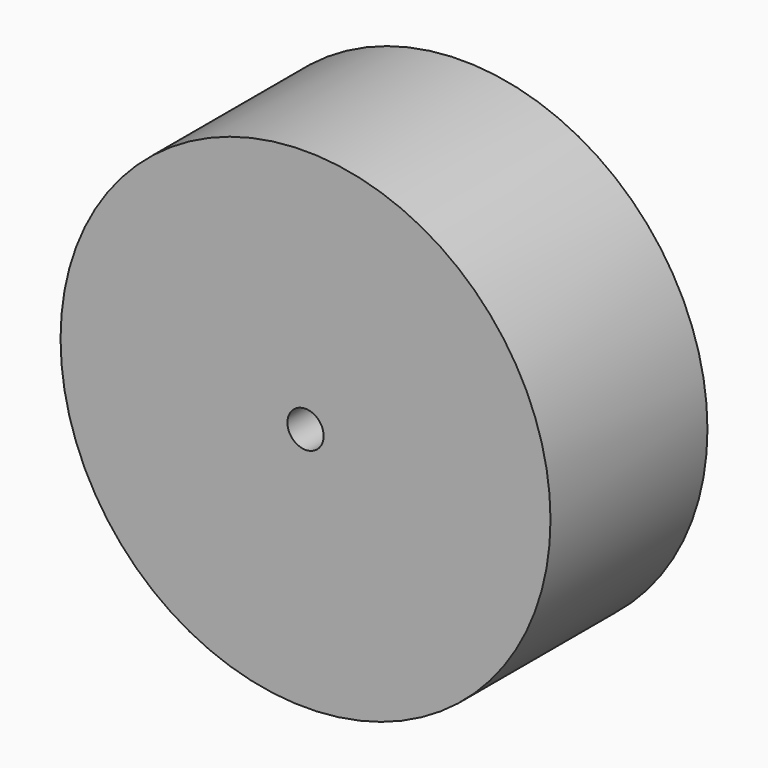
from build123d import *

# Parameters (mm, degrees)
F0_R     = 99.8962025771
F1_DEPTH = 50
F2_R     = 7.3881969702
F3_DEPTH = 50.001
F4_DEPTH = 50
F5_DEPTH = 20


with BuildPart() as f1:
    # F0 (on Front) → F1 (new body)
    with BuildSketch(Plane.XZ):
        Circle(F0_R)
    extrude(amount=F1_DEPTH)

    # F2 (on face) → F3 (cut, through all)
    with BuildSketch(Plane.XZ.offset(50)):
        Circle(F2_R)
    extrude(amount=-F3_DEPTH, mode=Mode.SUBTRACT)

    # F4 (add): a face of the model
    f4_faces = [f1.faces().sort_by_distance(p)[0] for p in [
        (-97.0707112869, -50, 0),
    ]]
    extrude(f4_faces, amount=F4_DEPTH)

    # F5 (cut): a face of the model
    f5_faces = [f1.faces().sort_by_distance(p)[0] for p in [
        (-97.0707112869, -100, 0),
    ]]
    extrude(f5_faces, amount=-F5_DEPTH, mode=Mode.SUBTRACT)


solid = f1.part
